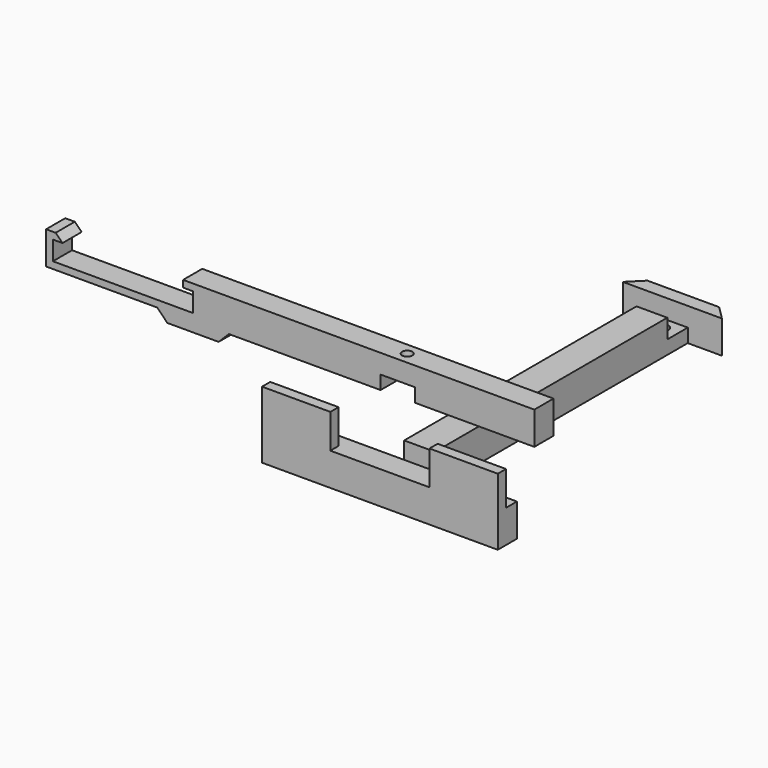
from build123d import *

# Parameters (mm, degrees)
PAD001_DEPTH    = 7
SKETCH002_R     = 1.5
POCKET_DEPTH    = 5.601
SKETCH003_R     = 1.85
PAD002_DEPTH    = 9.6
SKETCH004_W     = 9
SKETCH004_H     = 7.5
POCKET001_DEPTH = 5.6
SKETCH005_W     = 20
SKETCH005_H     = 3
PAD003_DEPTH    = 10


with BuildPart() as body001:
    # Sketch001 → Pad001 (new body)
    with BuildSketch(Plane.XZ):
        Polygon((0, 0), (41, 0), (41, 5.6), (38.1, 5.6), (38.1, 7.6), (140.9, 7.6), (140.9, -2), (105.9, -2), (105.9, 2), (95.9, 2), (95.9, -2), (51.5, -2), (48.5, -5), (33.5, -5), (30.5, -2), (-2, -2), (-2, 7.6), (0.8, 7.6), (2.8, 5.6), (0, 5.6), align=None)
    extrude(amount=PAD001_DEPTH)

    # Sketch002 (on Face13 of Pad001) → Pocket (cut, through all)
    with BuildSketch(Plane(origin=(0, 0, 2), x_dir=(1, 0, 0), z_dir=(0, 0, -1))):
        with Locations((100.9, 3.5)):
            Circle(SKETCH002_R)
    extrude(amount=-POCKET_DEPTH, mode=Mode.SUBTRACT)


with BuildPart() as body002:
    # Sketch003 → Pad002 (new body)
    with BuildSketch(Plane.XY):
        Polygon((0, 0), (0, 100), (-10, 100), (-6, 104), (15, 104), (19, 100), (9, 100), (9, 0), (39, 0), (39, -7), (-30, -7), (-30, 0), align=None)
        with Locations((4.5, 3.75)):
            Circle(SKETCH003_R, mode=Mode.SUBTRACT)
        with Locations((4.5, 96.25)):
            Circle(SKETCH003_R, mode=Mode.SUBTRACT)
    extrude(amount=PAD002_DEPTH)

    # Sketch004 (on Face16 of Pad002) → Pocket001 (cut)
    with BuildSketch(Plane.XY.offset(9.6)):
        with Locations((4.5, 3.75)):
            Rectangle(SKETCH004_W, SKETCH004_H)
        with Locations((4.5, 96.25)):
            Rectangle(SKETCH004_W, SKETCH004_H)
    extrude(amount=-POCKET001_DEPTH, mode=Mode.SUBTRACT)

    # Sketch005 (on Face24 of Pocket001) → Pad003 (join)
    with BuildSketch(Plane.XY.offset(9.6)):
        with Locations((-20, -5.5)):
            Rectangle(SKETCH005_W, SKETCH005_H)
        with Locations((29, -5.5)):
            Rectangle(SKETCH005_W, SKETCH005_H)
    extrude(amount=PAD003_DEPTH)


with BuildPart() as body002_1:
    # Body002 placement: moved
    add(body002.part.moved(Location((96, -6, -28))))


solid = Compound([body001.part, body002_1.part])
